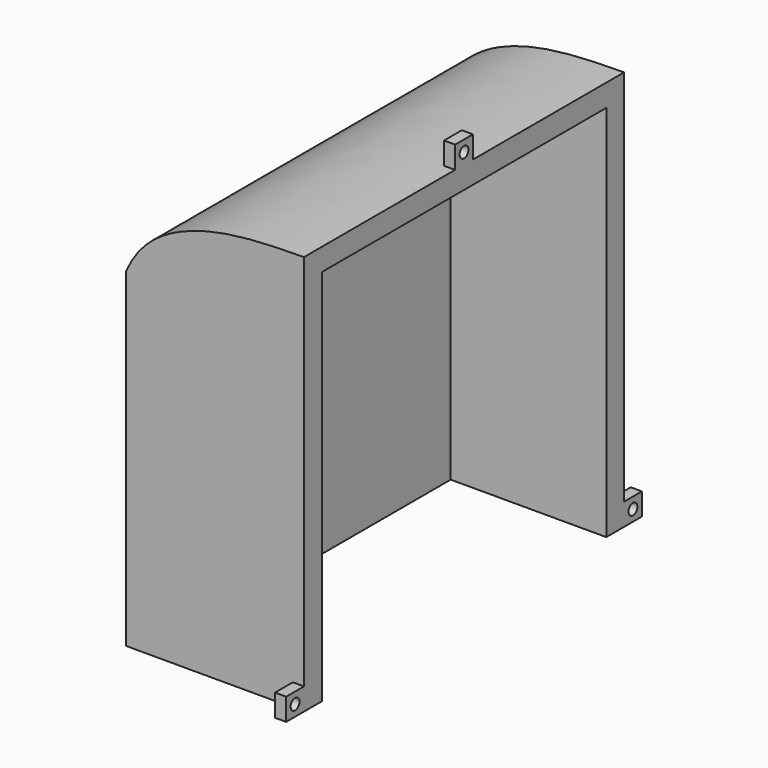
from build123d import *

# Parameters (mm, degrees)
F1_DEPTH = 114.3
F2_T     = -6.35
F3_W     = 6.35
F3_H     = 6.35
F3_R     = 1.5875
F4_DEPTH = 3.175


with BuildPart() as f1:
    # F0 (on Front) → F1 (new body)
    with BuildSketch(Plane.XZ):
        with BuildLine():
            Line((0, -31.3225934026), (0, 82.9774065974))
            add(Edge.make_bspline(
                [(-50.8, 62.9390975716), (-47.0688648848, 71.4759068336), (-33.0013413264, 81.0637344093), (-15.4475548971, 82.9055417219), (0, 82.9774065974)],
                knots=[0, 0, 0, 0, 0.4529279664, 1, 1, 1, 1], degree=3))
            Line((-50.8, 62.9390975716), (-50.8, -31.3225934026))
            Line((-50.8, -31.3225934026), (0, -31.3225934026))
        make_face()
    extrude(amount=F1_DEPTH)

    # F2
    f2_openings = [f1.faces().sort_by_distance(p)[0] for p in [
        (0, -57.15, 25.827407),
        (-25.4, -57.15, -31.322593),
    ]]
    offset(amount=F2_T, openings=f2_openings, kind=Kind.INTERSECTION)

    # F3 (on Right) → F4 (join)
    with BuildSketch(Plane.YZ):
        with Locations((3.175, -28.1475934026)):
            Rectangle(F3_W, F3_H)
        with Locations((3.175, -28.1475934026)):
            Circle(F3_R, mode=Mode.SUBTRACT)
        with Locations((-117.475, -28.1475934026)):
            Rectangle(F3_W, F3_H)
        with Locations((-117.475, -28.1475934026)):
            Circle(F3_R, mode=Mode.SUBTRACT)
        Polygon((-53.975, 89.3274065974), (-60.325, 89.3274065974), (-60.325, 82.9774065974), (-60.325, 81.7074065974), (-53.975, 81.7074065974), (-53.975, 82.9774065974), align=None)
        with Locations((-57.15, 86.1524065974)):
            Circle(F3_R, mode=Mode.SUBTRACT)
    extrude(amount=-F4_DEPTH)


solid = f1.part
